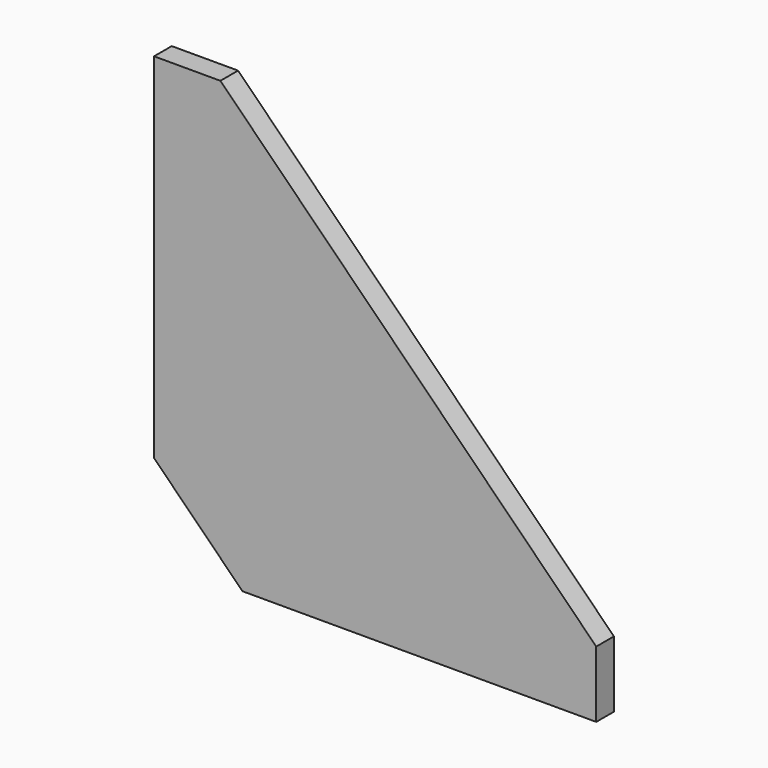
from build123d import *

# Parameters (mm, degrees)
PAD_DEPTH = 5


with BuildPart() as part:
    # Sketch → Pad (new body, symmetric)
    with BuildSketch(Plane.XZ):
        Polygon((40, 0), (200, 0), (200, 30), (30, 200), (0, 200), (0, 40), align=None)
    extrude(amount=PAD_DEPTH, both=True)


solid = part.part
